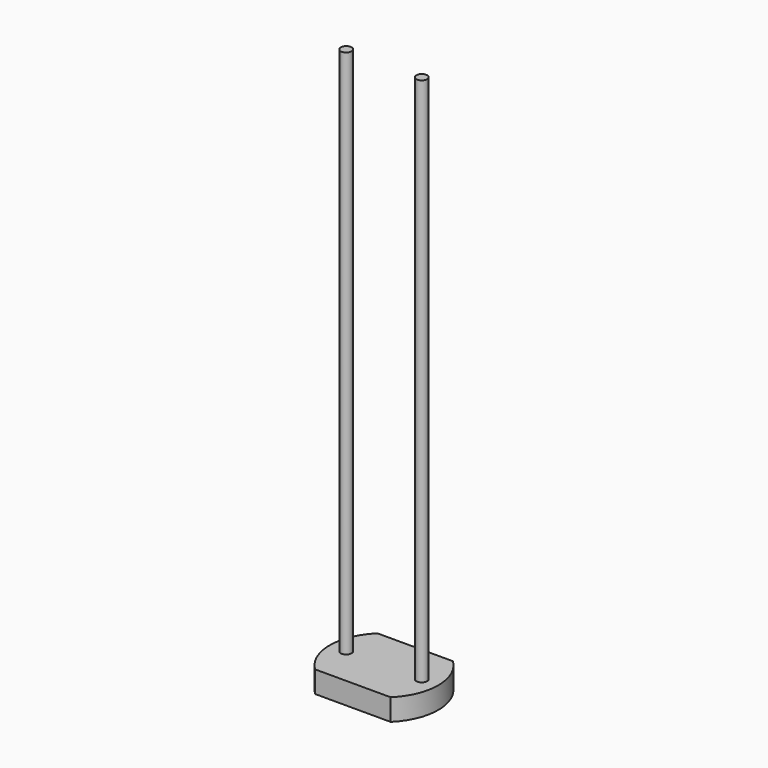
from build123d import *

# Parameters (mm, degrees)
F0_R     = 0.25
F1_DEPTH = 1
F2_DEPTH = 25.4


with BuildPart() as f1:
    # F0 (on Top) → F1 (new body)
    with BuildSketch(Plane.XY):
        with BuildLine():
            Line((1.740053, 1.795053), (-1.740053, 1.795053))
            ThreePointArc((-1.740053, 1.795053), (-2.5, 0), (-1.740053, -1.795053))
            Line((-1.740053, -1.795053), (1.740053, -1.795053))
            ThreePointArc((1.740053, -1.795053), (2.5, 0), (1.740053, 1.795053))
        make_face()
        with Locations((-1.740053, 0)):
            Circle(F0_R, mode=Mode.SUBTRACT)
        with Locations((1.740053, 0)):
            Circle(F0_R, mode=Mode.SUBTRACT)
    extrude(amount=F1_DEPTH)


with BuildPart() as f2:
    # F0 (on Top) → F2 (new body)
    with BuildSketch(Plane.XY):
        with Locations((1.740053, 0)):
            Circle(F0_R)
        with Locations((-1.740053, 0)):
            Circle(F0_R)
    extrude(amount=F2_DEPTH)


solid = Compound([f1.part, f2.part])
